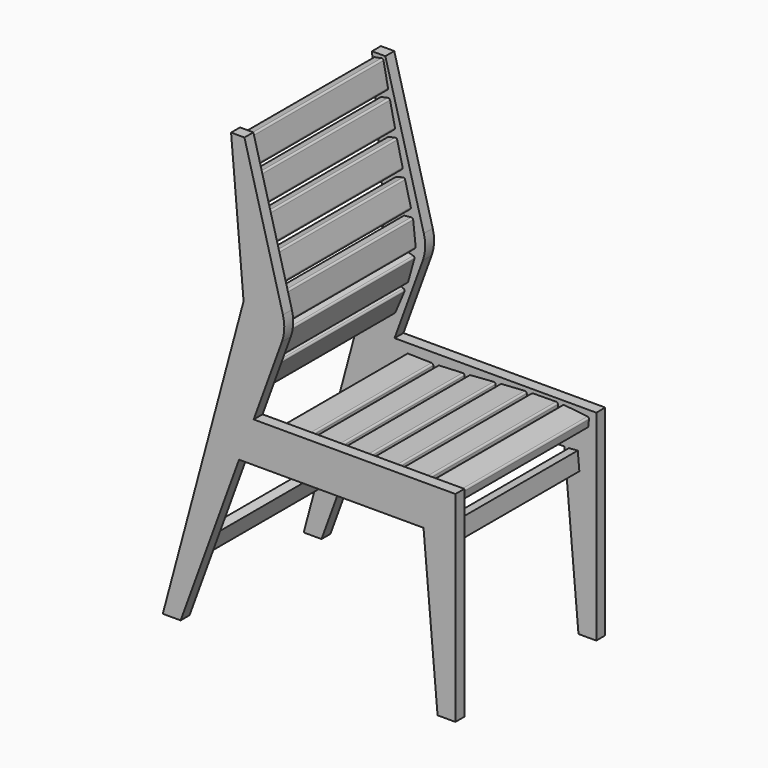
from build123d import *

# Parameters (mm, degrees)
PAD_DEPTH    = 25
SKETCH001_R  = 4
PAD001_DEPTH = 185


with BuildPart() as part:
    # Sketch → Pad (new body)
    with BuildSketch(Plane.XZ):
        with BuildLine():
            Line((-52.45, 0), (400, 0))
            Line((400, 0), (400, -450))
            Line((400, -450), (360, -450))
            Line((360, -450), (328.504081, -90))
            Line((328.504081, -90), (-85.207321, -90))
            Line((-216.236605, -450), (-85.207321, -90))
            Line((-256.236605, -450), (-216.236605, -450))
            Line((-256.236605, -450), (-75.063274, 226.148078))
            Line((-103.102058, 550), (-75.063274, 226.148078))
            Line((-73.102058, 550), (-103.102058, 550))
            Line((13.193159, 227.941863), (-73.102058, 550))
            ThreePointArc((10.832171, 173.866336), (16.174175, 200.722404), (13.193159, 227.941863))
            Line((-52.45, 0), (10.832171, 173.866336))
        make_face()
    pad = extrude(amount=PAD_DEPTH)

    # Sketch001 → Pad001 (join)
    with BuildSketch(Plane(origin=(0, 0, 0), x_dir=(-1, 0, 0), z_dir=(0, 1, 0))):
        with BuildLine():
            Line((-380.084047, -14.087089), (-328.406492, -8.305195))
            ThreePointArc((-323.986534, -11.83563), (-325.465336, -9.155009), (-328.406492, -8.305195))
            Line((-323.986534, -11.83563), (-322.20749, -27.736416))
            Line((-322.20749, -27.736416), (-381.835438, -34.407833))
            Line((-381.835438, -34.407833), (-383.614482, -18.507047))
            ThreePointArc((-380.084047, -14.087089), (-382.764668, -15.565891), (-383.614482, -18.507047))
        make_face()
        with Locations((-368.040354, -22.801988)):
            Circle(SKETCH001_R, mode=Mode.SUBTRACT)
        with Locations((-338.22638, -19.466279)):
            Circle(SKETCH001_R, mode=Mode.SUBTRACT)
        with Locations((-353.133367, -21.134133)):
            Circle(SKETCH001_R, mode=Mode.SUBTRACT)
        with BuildLine():
            Line((-309.94977, -7.584038), (-257.952538, -8.120583))
            ThreePointArc((-253.994024, -12.161643), (-255.13635, -9.321278), (-257.952538, -8.120583))
            Line((-253.994024, -12.161643), (-254.159115, -28.160791))
            Line((-254.159115, -28.160791), (-314.155921, -27.541701))
            Line((-314.155921, -27.541701), (-313.99083, -11.542553))
            ThreePointArc((-309.94977, -7.584038), (-312.790135, -8.726365), (-313.99083, -11.542553))
        make_face()
        with Locations((-299.053537, -17.697006)):
            Circle(SKETCH001_R, mode=Mode.SUBTRACT)
        with Locations((-269.055134, -18.006551)):
            Circle(SKETCH001_R, mode=Mode.SUBTRACT)
        with Locations((-284.054336, -17.851778)):
            Circle(SKETCH001_R, mode=Mode.SUBTRACT)
        with BuildLine():
            Line((-239.751516, -8.95899), (-187.865767, -12.404139))
            ThreePointArc((-184.139566, -16.660362), (-185.121174, -13.760529), (-187.865767, -12.404139))
            Line((-184.139566, -16.660362), (-185.199612, -32.625208))
            Line((-185.199612, -32.625208), (-245.067784, -28.650036))
            Line((-245.067784, -28.650036), (-244.007738, -12.68519))
            ThreePointArc((-239.751516, -8.95899), (-242.651348, -9.940598), (-244.007738, -12.68519))
        make_face()
        with Locations((-229.438213, -19.665801)):
            Circle(SKETCH001_R, mode=Mode.SUBTRACT)
        with Locations((-199.504127, -21.653386)):
            Circle(SKETCH001_R, mode=Mode.SUBTRACT)
        with Locations((-214.47117, -20.659593)):
            Circle(SKETCH001_R, mode=Mode.SUBTRACT)
        with BuildLine():
            Line((-169.88109, -13.79193), (-118.03089, -17.736145))
            ThreePointArc((-114.345815, -22.028023), (-115.299475, -19.118879), (-118.03089, -17.736145))
            Line((-114.345815, -22.028023), (-115.559419, -37.98193))
            Line((-115.559419, -37.98193), (-175.386572, -33.430914))
            Line((-175.386572, -33.430914), (-174.172968, -17.477006))
            ThreePointArc((-169.88109, -13.79193), (-172.790233, -14.745591), (-174.172968, -17.477006))
        make_face()
        with Locations((-159.671281, -24.597476)):
            Circle(SKETCH001_R, mode=Mode.SUBTRACT)
        with Locations((-129.757704, -26.872984)):
            Circle(SKETCH001_R, mode=Mode.SUBTRACT)
        with Locations((-144.714493, -25.73523)):
            Circle(SKETCH001_R, mode=Mode.SUBTRACT)
        with BuildLine():
            Line((-100.187396, -18.931637), (-48.244957, -21.377676))
            ThreePointArc((-44.437542, -25.561405), (-45.474771, -22.680999), (-48.244957, -21.377676))
            Line((-44.437542, -25.561405), (-45.19017, -41.543694))
            Line((-45.19017, -41.543694), (-105.123752, -38.721341))
            Line((-105.123752, -38.721341), (-104.371125, -22.739052))
            ThreePointArc((-100.187396, -18.931637), (-103.067802, -19.968866), (-104.371125, -22.739052))
        make_face()
        with Locations((-89.669964, -29.437999)):
            Circle(SKETCH001_R, mode=Mode.SUBTRACT)
        with Locations((-59.703173, -30.849175)):
            Circle(SKETCH001_R, mode=Mode.SUBTRACT)
        with Locations((-74.686569, -30.143587)):
            Circle(SKETCH001_R, mode=Mode.SUBTRACT)
        with BuildLine():
            Line((-30.520587, -21.720895), (21.469162, -20.688428))
            ThreePointArc((25.547794, -24.608219), (24.320294, -21.803611), (21.469162, -20.688428))
            Line((25.547794, -24.608219), (25.865477, -40.605065))
            Line((25.865477, -40.605065), (-34.122696, -41.796373))
            Line((-34.122696, -41.796373), (-34.440378, -25.799527))
            ThreePointArc((-30.520587, -21.720895), (-33.325195, -22.948396), (-34.440378, -25.799527))
        make_face()
        with Locations((-19.324204, -31.500517)):
            Circle(SKETCH001_R, mode=Mode.SUBTRACT)
        with Locations((10.669882, -30.904863)):
            Circle(SKETCH001_R, mode=Mode.SUBTRACT)
        with Locations((-4.327161, -31.20269)):
            Circle(SKETCH001_R, mode=Mode.SUBTRACT)
        with BuildLine():
            Line((67.138857, 489.064339), (77.168291, 540.087966))
            ThreePointArc((81.86468, 543.241365), (78.863395, 542.63732), (77.168291, 540.087966))
            Line((81.86468, 543.241365), (97.564258, 540.155386))
            Line((97.564258, 540.155386), (85.991834, 481.281971))
            Line((85.991834, 481.281971), (70.292257, 484.36795))
            ThreePointArc((67.138857, 489.064339), (67.742903, 486.063054), (70.292257, 484.36795))
        make_face()
        with Locations((79.072704, 497.929062)):
            Circle(SKETCH001_R, mode=Mode.SUBTRACT)
        with Locations((84.858916, 527.365769)):
            Circle(SKETCH001_R, mode=Mode.SUBTRACT)
        with Locations((81.96581, 512.647415)):
            Circle(SKETCH001_R, mode=Mode.SUBTRACT)
        with BuildLine():
            Line((51.533634, 415.783695), (62.518738, 466.61014))
            ThreePointArc((67.273472, 469.674859), (64.261381, 469.127237), (62.518738, 466.61014))
            Line((67.273472, 469.674859), (82.912378, 466.294827))
            Line((82.912378, 466.294827), (70.237259, 407.648929))
            Line((70.237259, 407.648929), (54.598352, 411.028961))
            ThreePointArc((51.533634, 415.783695), (52.081255, 412.771604), (54.598352, 411.028961))
        make_face()
        with Locations((63.631722, 424.422923)):
            Circle(SKETCH001_R, mode=Mode.SUBTRACT)
        with Locations((69.969282, 453.745872)):
            Circle(SKETCH001_R, mode=Mode.SUBTRACT)
        with Locations((66.800502, 439.084398)):
            Circle(SKETCH001_R, mode=Mode.SUBTRACT)
        with BuildLine():
            Line((34.346407, 342.872051), (46.45303, 393.443087))
            ThreePointArc((51.274388, 396.401888), (48.250921, 395.921023), (46.45303, 393.443087))
            Line((51.274388, 396.401888), (66.834707, 392.676773))
            Line((66.834707, 392.676773), (52.865526, 334.325578))
            Line((52.865526, 334.325578), (37.305208, 338.050693))
            ThreePointArc((34.346407, 342.872051), (34.827271, 339.848584), (37.305208, 338.050693))
        make_face()
        with Locations((46.632622, 351.241573)):
            Circle(SKETCH001_R, mode=Mode.SUBTRACT)
        with Locations((53.617213, 380.417171)):
            Circle(SKETCH001_R, mode=Mode.SUBTRACT)
        with Locations((50.124918, 365.829372)):
            Circle(SKETCH001_R, mode=Mode.SUBTRACT)
        with BuildLine():
            Line((15.987948, 270.20908), (28.768825, 320.613933))
            ThreePointArc((33.629265, 323.508085), (30.599646, 323.067639), (28.768825, 320.613933))
            Line((33.629265, 323.508085), (49.138451, 319.575507))
            Line((49.138451, 319.575507), (34.391285, 261.416061))
            Line((34.391285, 261.416061), (18.8821, 265.348639))
            ThreePointArc((15.987948, 270.20908), (16.428394, 267.179461), (18.8821, 265.348639))
        make_face()
        with Locations((28.384836, 278.413784)):
            Circle(SKETCH001_R, mode=Mode.SUBTRACT)
        with Locations((35.758418, 307.493507)):
            Circle(SKETCH001_R, mode=Mode.SUBTRACT)
        with Locations((32.071627, 292.953645)):
            Circle(SKETCH001_R, mode=Mode.SUBTRACT)
        with BuildLine():
            Line((5.14592, 195.582172), (10.671889, 247.287719))
            ThreePointArc((15.074313, 250.839995), (12.1374, 249.975629), (10.671889, 247.287719))
            Line((15.074313, 250.839995), (30.983712, 249.139697))
            Line((30.983712, 249.139697), (24.607595, 189.479449))
            Line((24.607595, 189.479449), (8.698196, 191.179747))
            ThreePointArc((5.14592, 195.582172), (6.010286, 192.645259), (8.698196, 191.179747))
        make_face()
        with Locations((16.25825, 205.457197)):
            Circle(SKETCH001_R, mode=Mode.SUBTRACT)
        with Locations((19.446308, 235.287321)):
            Circle(SKETCH001_R, mode=Mode.SUBTRACT)
        with Locations((17.852279, 220.372259)):
            Circle(SKETCH001_R, mode=Mode.SUBTRACT)
        with BuildLine():
            Line((21.885472, 121.300134), (7.878013, 171.377984))
            ThreePointArc((10.652658, 176.307623), (8.244374, 174.417451), (7.878013, 171.377984))
            Line((10.652658, 176.307623), (26.061227, 180.617611))
            Line((26.061227, 180.617611), (42.223681, 122.835476))
            Line((42.223681, 122.835476), (26.815112, 118.525488))
            ThreePointArc((21.885472, 121.300134), (23.775644, 118.891849), (26.815112, 118.525488))
        make_face()
        with Locations((28.552712, 134.587267)):
            Circle(SKETCH001_R, mode=Mode.SUBTRACT)
        with Locations((20.471485, 163.478335)):
            Circle(SKETCH001_R, mode=Mode.SUBTRACT)
        with Locations((24.512098, 149.032801)):
            Circle(SKETCH001_R, mode=Mode.SUBTRACT)
        with BuildLine():
            Line((50.442841, 51.437424), (30.233774, 99.349777))
            ThreePointArc((32.364796, 104.589886), (30.214023, 102.411181), (30.233774, 99.349777))
            Line((32.364796, 104.589886), (47.107058, 110.808061))
            Line((47.107058, 110.808061), (70.425213, 55.524576))
            Line((70.425213, 55.524576), (55.68295, 49.306402))
            ThreePointArc((50.442841, 51.437424), (52.621547, 49.28665), (55.68295, 49.306402))
        make_face()
        with Locations((55.38176, 65.459088)):
            Circle(SKETCH001_R, mode=Mode.SUBTRACT)
        with Locations((43.722683, 93.100831)):
            Circle(SKETCH001_R, mode=Mode.SUBTRACT)
        with Locations((49.552222, 79.279959)):
            Circle(SKETCH001_R, mode=Mode.SUBTRACT)
        Polygon((175.612205, -284.335259), (194.930722, -279.158878), (205.283484, -317.795911), (185.964967, -322.972292), align=None)
        Polygon((-358.466173, -88.256885), (-338.54228, -90), (-342.028509, -129.847788), (-361.952403, -128.104673), align=None)
    pad001 = extrude(amount=PAD001_DEPTH)

    # Mirrored: Pad, Pad001 across face of Pad001
    add(pad.mirror(Plane(origin=(-32.129783, 185, 292.938899), x_dir=(-1, 0, 0), z_dir=(0, 1, 0))))
    add(pad001.mirror(Plane(origin=(-32.129783, 185, 292.938899), x_dir=(-1, 0, 0), z_dir=(0, 1, 0))))


solid = part.part
